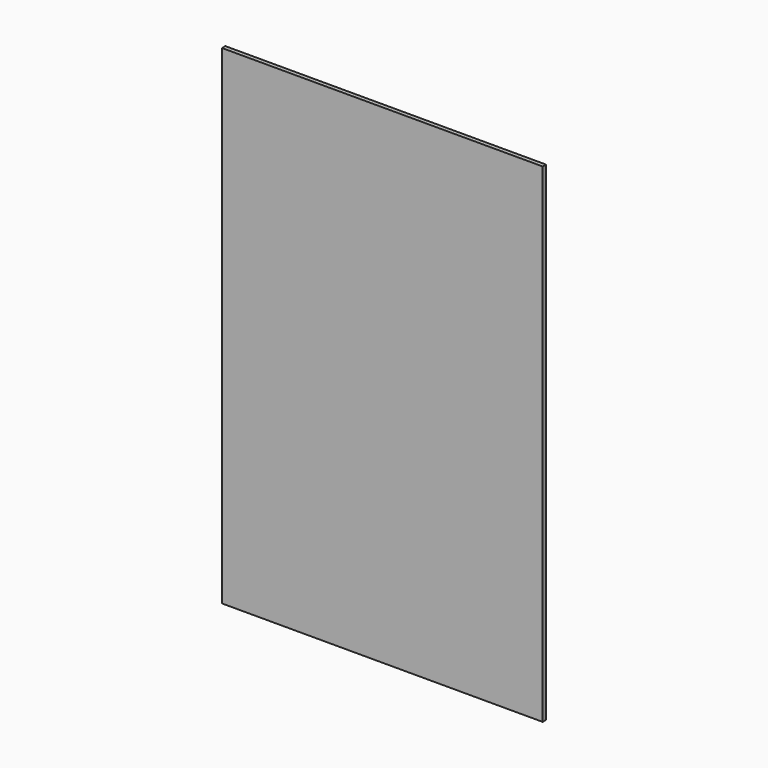
from build123d import *

# Parameters (mm, degrees)
F0_W     = 385
F0_H     = 587
F1_DEPTH = 0.5
F2_DEPTH = 5


with BuildPart() as f1:
    # F0 (on Front) → F1 (new body)
    with BuildSketch(Plane.XZ):
        Rectangle(F0_W, F0_H)
    extrude(amount=F1_DEPTH)

    # F0 (on Front) → F2 (join)
    with BuildSketch(Plane.XZ):
        Rectangle(F0_W, F0_H)
    extrude(amount=F2_DEPTH)


solid = f1.part
